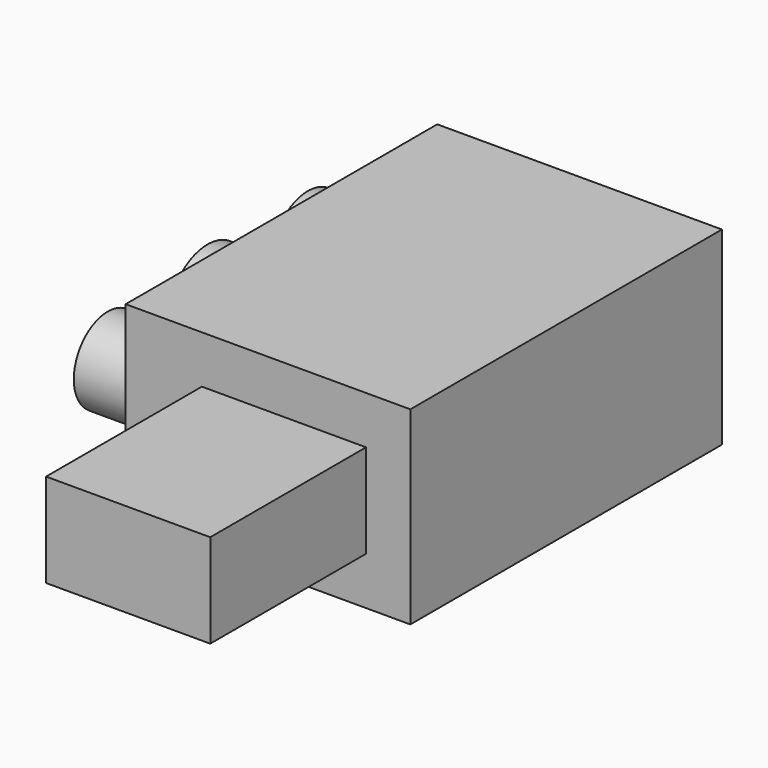
from build123d import *

# Parameters (mm, degrees)
F0_W      = 151.8585681915
F0_H      = 72.1951127052
F1_DEPTH  = 150
F2_W      = 269.2821621895
F2_H      = 145.881652832
F3_DEPTH  = 300
F4_R      = 39.1105364466
F4_R_2    = 36.046178771
F4_R_3    = 32.629936561
F6_DEPTH  = 25.4
F7_DEPTH  = 50
F8_DEPTH  = 25.4
F9_DEPTH  = 25.4
F5_W      = 269.2821621895
F5_H      = 300
F10_DEPTH = 25.4
F11_DEPTH = 25.4


with BuildPart() as f1:
    # F0 (on Front) → F1 (new body)
    with BuildSketch(Plane.XZ):
        Rectangle(F0_W, F0_H)
    extrude(amount=F1_DEPTH)

    # F2 (on face) → F3 (join)
    with BuildSketch(Plane(origin=(0, 0, 0), x_dir=(-1, 0, 0), z_dir=(0, 1, 0))):
        Rectangle(F2_W, F2_H)
    extrude(amount=F3_DEPTH)

    # F4 (on face) → F6 (join)
    with BuildSketch(Plane(origin=(-134.6410810947, 0, 0), x_dir=(0, -1, 0), z_dir=(-1, 0, 0))):
        with Locations((-142.3476338387, 0)):
            Circle(F4_R)
        with Locations((-238.8992160559, 0)):
            Circle(F4_R_2)
        with Locations((-142.3476338387, 0)):
            Circle(F4_R)
        with Locations((-46.2152846158, 0)):
            Circle(F4_R_3)
    extrude(amount=F6_DEPTH)

    # F7 (cut): a face of the model
    f7_faces = [f1.faces().sort_by_distance(p)[0] for p in [
        (134.6410810947, 150, 0),
    ]]
    extrude(f7_faces, amount=-F7_DEPTH, mode=Mode.SUBTRACT)

    # F8 (cut): a face of the model
    f8_faces = [f1.faces().sort_by_distance(p)[0] for p in [
        (75.9292840958, -75, 0),
    ]]
    extrude(f8_faces, amount=-F8_DEPTH, mode=Mode.SUBTRACT)

    # F9 (add): faces of the model
    f9_faces = [f1.faces().sort_by_distance(p)[0] for p in [
        (-160.0410810947, 238.8992160559, 0),
        (-160.0410810947, 142.3476338387, 0),
        (-160.0410810947, 46.2152846158, 0),
    ]]
    extrude(f9_faces, amount=F9_DEPTH)

    # F5 (on face) → F10 (cut)
    with BuildSketch(Plane.XY.offset(72.940826416)):
        with Locations((0, 150)):
            Rectangle(F5_W, F5_H)
    extrude(amount=-F10_DEPTH, mode=Mode.SUBTRACT)

    # F11 (add): a face of the model
    f11_faces = [f1.faces().sort_by_distance(p)[0] for p in [
        (-25, 150, 47.540826416),
    ]]
    extrude(f11_faces, amount=F11_DEPTH)


solid = f1.part
